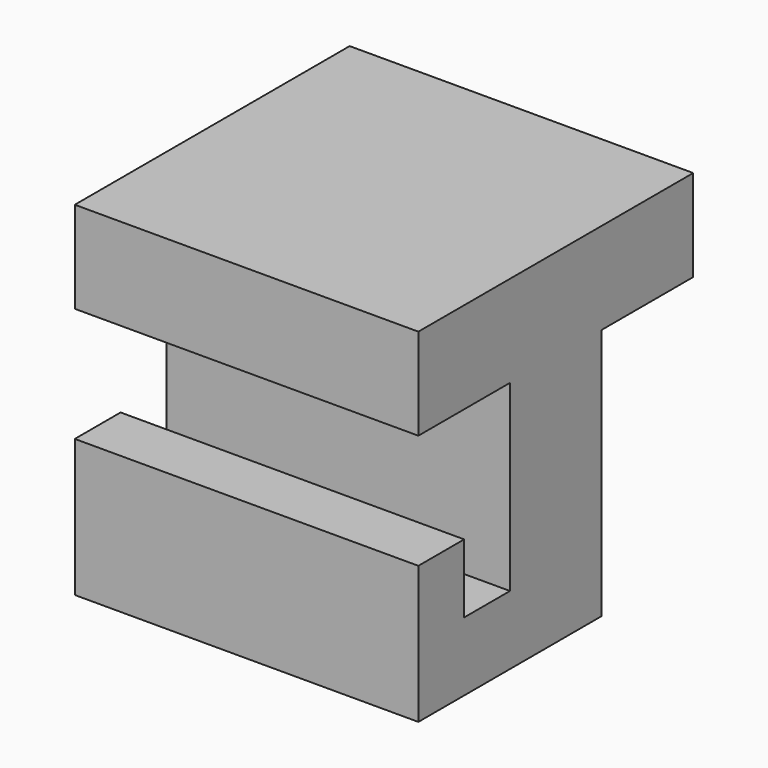
from build123d import *

# Parameters (mm, degrees)
F0_W     = 38.1
F0_H     = 38.1
F1_DEPTH = 38.1
F4_W     = 12.7
F4_H     = 27.94
F5_DEPTH = 38.1


with BuildPart() as f1:
    # F0 (on Front) → F1 (new body)
    with BuildSketch(Plane.XZ):
        with Locations((19.05, 19.05)):
            Rectangle(F0_W, F0_H)
    extrude(amount=F1_DEPTH)

    # F4 (on offset) → F5 (cut)
    with BuildSketch(Plane.YZ.offset(38.1)):
        Polygon((-38.1, 27.94), (-38.1, 15.24), (-31.75, 15.24), (-31.75, 7.62), (-25.4, 7.62), (-25.4, 27.94), align=None)
        with Locations((-6.35, 13.97)):
            Rectangle(F4_W, F4_H)
    extrude(amount=-F5_DEPTH, mode=Mode.SUBTRACT)


solid = f1.part
